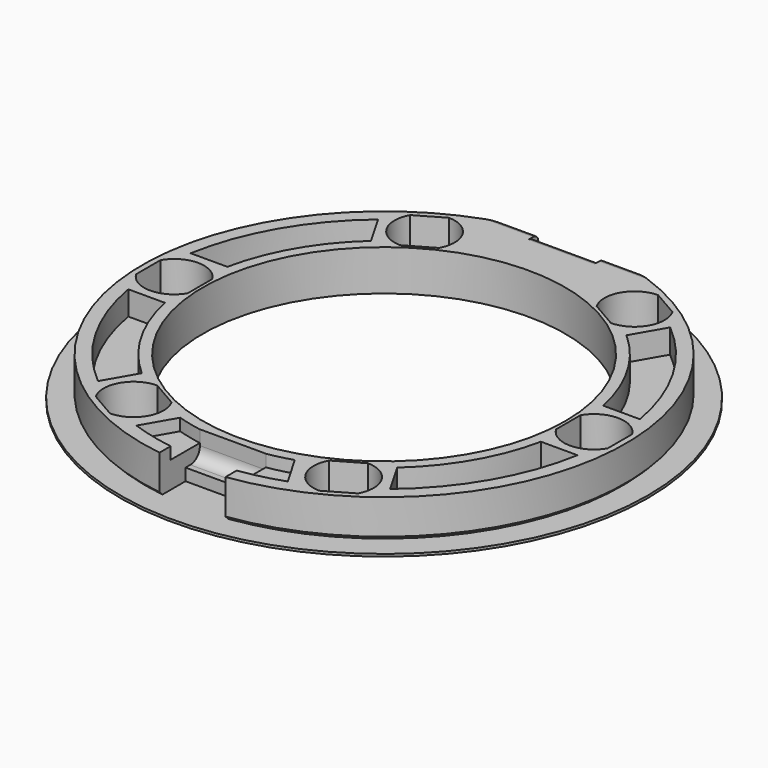
from build123d import *

# Parameters (mm, degrees)
POCKET_DEPTH         = 128.037431
POLARPATTERN_COUNT   = 6
POCKET004_DEPTH      = 1.001
POCKET005_DEPTH      = 2.001
POCKET006_DEPTH      = 22.001
POCKET006_DEPTH_BACK = -22.001
POCKET007_DEPTH      = 2.75


with BuildPart() as part:
    # Sketch → Revolution (revolve)
    with BuildSketch(Plane.XZ):
        Polygon((19.85, 5.5), (22, 5.5), (22, 5.3), (15.1, 5.3), (15.1, 8.7), (20.15, 8.7), (20.15, 5.8), align=None)
    revolve(axis=Axis((0, 0, 0), (0, 0, 1)))

    # Sketch001 → Pocket (cut, through all)
    with BuildSketch(Plane.XY.offset(5.3)):
        with BuildLine():
            ThreePointArc((-15.35, 1.275735), (-17.5, 2.5), (-19.65, 1.275735))
            Line((-19.65, 1.275735), (-19.65, -1.275735))
            ThreePointArc((-19.65, -1.275735), (-17.5, -2.5), (-15.35, -1.275735))
            Line((-15.35, -1.275735), (-15.35, 1.275735))
        make_face()
    pocket = extrude(amount=POCKET_DEPTH, mode=Mode.SUBTRACT)

    # PolarPattern: Pocket ×6 about axis
    polarpattern_axis = Axis((0, 0, 0), (0, 0, 1))
    for i in range(1, POLARPATTERN_COUNT):
        add(pocket.rotate(polarpattern_axis, i * 360 / POLARPATTERN_COUNT), mode=Mode.SUBTRACT)

    # Sketch005 → Pocket004 (cut, through all)
    with BuildSketch(Plane.XY.offset(7.7)):
        with BuildLine():
            ThreePointArc((-4.775159, -15.270817), (0, -16), (4.775159, -15.270817))
            Line((4.775159, -15.270817), (6.306336, -17.922894))
            ThreePointArc((-6.306336, -17.922894), (0, -19), (6.306336, -17.922894))
            Line((-6.306336, -17.922894), (-4.775159, -15.270817))
        make_face()
    extrude(amount=POCKET004_DEPTH, mode=Mode.SUBTRACT)

    # Sketch006 → Pocket005 (cut, through all)
    with BuildSketch(Plane.XY.offset(6.7)):
        with BuildLine():
            ThreePointArc((-10.647805, 11.942539), (-13.856406, 8), (-15.666445, 3.25))
            Line((-15.666445, 3.25), (-18.719976, 3.25))
            ThreePointArc((-12.174571, 14.586975), (-16.454483, 9.5), (-18.719976, 3.25))
            Line((-12.174571, 14.586975), (-10.647805, 11.942539))
        make_face()
        with BuildLine():
            ThreePointArc((-15.666445, -3.25), (-13.856406, -8), (-10.647805, -11.942539))
            Line((-12.174571, -14.586975), (-10.647805, -11.942539))
            ThreePointArc((-18.719976, -3.25), (-16.454483, -9.5), (-12.174571, -14.586975))
            Line((-18.719976, -3.25), (-15.666445, -3.25))
        make_face()
        with BuildLine():
            ThreePointArc((10.647805, -11.942539), (13.856406, -8), (15.666445, -3.25))
            Line((15.666445, -3.25), (18.719976, -3.25))
            ThreePointArc((12.174571, -14.586975), (16.454483, -9.5), (18.719976, -3.25))
            Line((10.647805, -11.942539), (12.174571, -14.586975))
        make_face()
        with BuildLine():
            ThreePointArc((18.719976, 3.25), (16.454483, 9.5), (12.174571, 14.586975))
            Line((10.647805, 11.942539), (12.174571, 14.586975))
            ThreePointArc((15.666445, 3.25), (13.856406, 8), (10.647805, 11.942539))
            Line((15.666445, 3.25), (18.719976, 3.25))
        make_face()
    extrude(amount=POCKET005_DEPTH, mode=Mode.SUBTRACT)

    # Sketch008 → Pocket006 (cut, two sides)
    with BuildSketch(Plane.YZ) as pocket006_sk:
        with BuildLine():
            Line((19, 10), (19, 8.7))
            ThreePointArc((19.5, 8.2), (19.353553, 8.553553), (19, 8.7))
            Line((19.5, 8.2), (19.5, 5.5))
            Line((20.5, 5.5), (19.5, 5.5))
            Line((20.5, 10), (20.5, 5.5))
            Line((19, 10), (20.5, 10))
        make_face()
    extrude(amount=-POCKET006_DEPTH, mode=Mode.SUBTRACT)
    extrude(pocket006_sk.sketch, amount=-POCKET006_DEPTH_BACK, mode=Mode.SUBTRACT)

    # Sketch004 → Pocket007 (cut, symmetric)
    with BuildSketch(Plane.YZ):
        with BuildLine():
            Line((21, 11), (18.5, 11))
            Line((18.5, 11), (18.5, 8.7))
            ThreePointArc((18.722171, 7.752071), (18.986808, 8.314096), (18.5, 8.7))
            ThreePointArc((18.722171, 7.752071), (18.09345, 6.416824), (19.25, 5.5))
            Line((19.25, 5.5), (21, 5.5))
            Line((21, 5.5), (21, 11))
        make_face()
        with BuildLine():
            Line((-20.75, 11), (-20.75, 5.5))
            Line((-20.75, 5.5), (-19, 5.5))
            Line((-19, 5.5), (-17.25, 5.5))
            Line((-17.25, 5.5), (-17.25, 6.5))
            Line((-17.25, 6.5), (-16.75, 6.5))
            ThreePointArc((-16.75, 6.5), (-16.042893, 6.792893), (-15.75, 7.5))
            Line((-15.75, 7.5), (-15.75, 11))
            Line((-20.75, 11), (-15.75, 11))
        make_face()
    extrude(amount=POCKET007_DEPTH, both=True, mode=Mode.SUBTRACT)


solid = part.part
